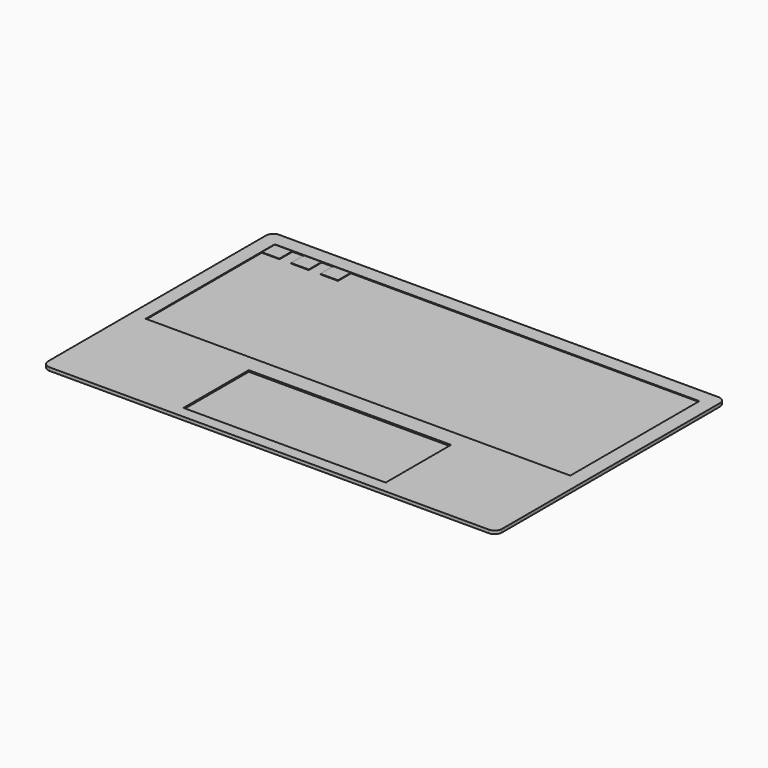
from build123d import *

# Parameters (mm, degrees)
F1_DEPTH = 2.794
F2_W     = 368.3
F2_H     = 139.9649612151
F3_DEPTH = 0.762
F4_W     = 175.4610008955
F4_H     = 70.8550387849
F5_DEPTH = 1.27
F6_W     = 15.326482141
F6_H     = 14.1157105111
F7_DEPTH = 0.508


with BuildPart() as f1:
    # F0 (on Top) → F1 (new body)
    with BuildSketch(Plane.XY):
        with BuildLine():
            ThreePointArc((191.6694995522, 125.0495699547), (189.8096276128, 129.5396980153), (185.3194995522, 131.3995699547))
            Line((185.3194995522, 131.3995699547), (-195.6805004478, 131.3995699547))
            ThreePointArc((-195.6805004478, 131.3995699547), (-200.1706285083, 129.5396980153), (-202.0305004478, 125.0495699547))
            Line((-202.0305004478, 125.0495699547), (-202.0305004478, -111.1704300453))
            ThreePointArc((-202.0305004478, -111.1704300453), (-200.1706285083, -115.6605581058), (-195.6805004478, -117.5204300453))
            Line((-195.6805004478, -117.5204300453), (185.3194995522, -117.5204300453))
            ThreePointArc((185.3194995522, -117.5204300453), (189.8096276128, -115.6605581058), (191.6694995522, -111.1704300453))
            Line((191.6694995522, -111.1704300453), (191.6694995522, 125.0495699547))
        make_face()
    extrude(amount=F1_DEPTH)

    # F2 (on face) → F3 (cut)
    with BuildSketch(Plane.XY.offset(2.794)):
        with Locations((-5.1805004478, 48.7170893472)):
            Rectangle(F2_W, F2_H)
    extrude(amount=-F3_DEPTH, mode=Mode.SUBTRACT)

    # F4 (on face) → F5 (cut)
    with BuildSketch(Plane.XY.offset(2.794)):
        with Locations((0, -71.9329106528)):
            Rectangle(F4_W, F4_H)
    extrude(amount=-F5_DEPTH, mode=Mode.SUBTRACT)

    # F6 (on face) → F7 (join)
    with BuildSketch(Plane.XY.offset(2.032)):
        with Locations((-181.6672593772, 111.6417146992)):
            Rectangle(F6_W, F6_H)
        with Locations((-156.2672593772, 111.6417146992)):
            Rectangle(F6_W, F6_H)
        with Locations((-130.8672593772, 111.6417146992)):
            Rectangle(F6_W, F6_H)
    extrude(amount=F7_DEPTH)


solid = f1.part
